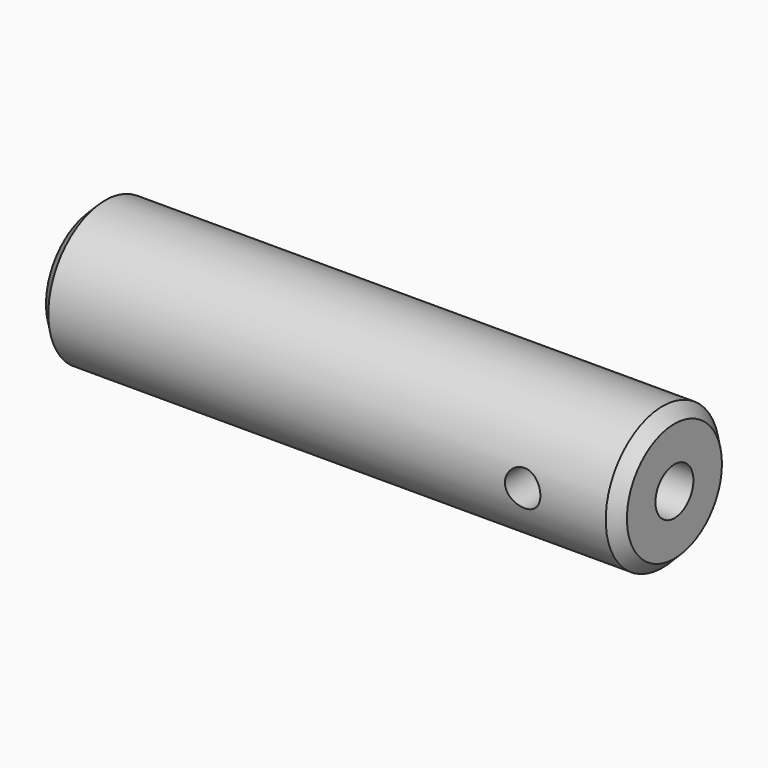
from build123d import *

# Parameters (mm, degrees)
F0_R     = 9.525
F0_R_2   = 3.175
F1_DEPTH = 38.8874
F2_SIZE2 = 1.5748
F2_SIZE  = 1.5748
F3_SIZE2 = 1.5748
F3_SIZE  = 1.5748
F4_R     = 2.3749
F5_DEPTH = 12.7


with BuildPart() as f1:
    # F0 (on Right) → F1 (new body, symmetric)
    with BuildSketch(Plane.YZ):
        Circle(F0_R)
        Circle(F0_R_2, mode=Mode.SUBTRACT)
    extrude(amount=F1_DEPTH, both=True)

    # F2
    f2_edges = [f1.edges().sort_by_distance(p)[0] for p in [
        (38.8874, -9.525, 0),
    ]]
    chamfer(f2_edges, length=F2_SIZE, length2=F2_SIZE2)

    # F3
    f3_edges = [f1.edges().sort_by_distance(p)[0] for p in [
        (-38.8874, -9.525, 0),
    ]]
    chamfer(f3_edges, length=F3_SIZE, length2=F3_SIZE2)

    # F4 (on Front) → F5 (cut, symmetric)
    with BuildSketch(Plane.XZ):
        with Locations((26.1874, 0)):
            Circle(F4_R)
    extrude(amount=F5_DEPTH, both=True, mode=Mode.SUBTRACT)


solid = f1.part
